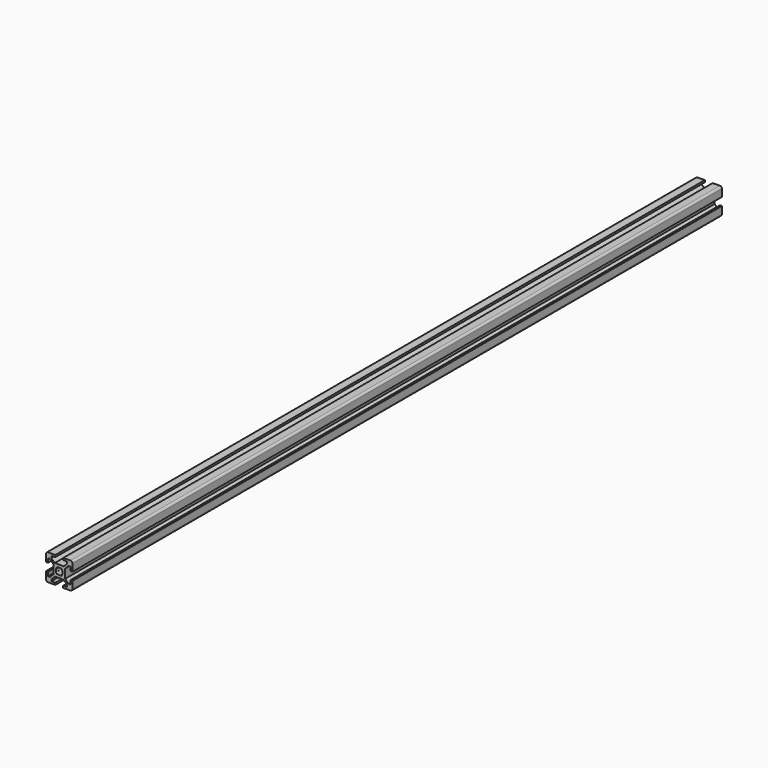
from build123d import *

# Parameters (mm, degrees)
F1_DEPTH = 615


with BuildPart() as f1:
    # F0 (on Front) → F1 (new body)
    with BuildSketch(Plane.XZ):
        with BuildLine():
            Line((3, -10), (8.5, -10))
            ThreePointArc((8.5, -10), (9.5606601718, -9.5606601718), (10, -8.5))
            Line((10, -8.5), (10, -3))
            Line((10, -3), (8.5, -3))
            Line((8.5, -3), (8.5, -6))
            Line((8.5, -6), (7.0606601718, -6))
            Line((7.0606601718, -6), (4.5, -3.4393398282))
            Line((4.5, -3.4393398282), (4.5, 3.4393398282))
            Line((4.5, 3.4393398282), (7.0606601718, 6))
            Line((7.0606601718, 6), (8.5, 6))
            Line((8.5, 6), (8.5, 3))
            Line((8.5, 3), (10, 3))
            Line((10, 3), (10, 8.5))
            ThreePointArc((10, 8.5), (9.5606601718, 9.5606601718), (8.5, 10))
            Line((8.5, 10), (3, 10))
            Line((3, 10), (3, 8.5))
            Line((3, 8.5), (6, 8.5))
            Line((6, 8.5), (6, 7.0606601718))
            Line((6, 7.0606601718), (3.4393398282, 4.5))
            Line((3.4393398282, 4.5), (-3.4393398282, 4.5))
            Line((-3.4393398282, 4.5), (-6, 7.0606601718))
            Line((-6, 7.0606601718), (-6, 8.5))
            Line((-6, 8.5), (-3, 8.5))
            Line((-3, 8.5), (-3, 10))
            Line((-3, 10), (-8.5, 10))
            ThreePointArc((-8.5, 10), (-9.5606601718, 9.5606601718), (-10, 8.5))
            Line((-10, 8.5), (-10, 3))
            Line((-10, 3), (-8.5, 3))
            Line((-8.5, 3), (-8.5, 6))
            Line((-8.5, 6), (-7.0606601718, 6))
            Line((-7.0606601718, 6), (-4.5, 3.4393398282))
            Line((-4.5, 3.4393398282), (-4.5, -3.4393398282))
            Line((-4.5, -3.4393398282), (-7.0606601718, -6))
            Line((-7.0606601718, -6), (-8.5, -6))
            Line((-8.5, -6), (-8.5, -3))
            Line((-8.5, -3), (-10, -3))
            Line((-10, -3), (-10, -8.5))
            ThreePointArc((-10, -8.5), (-9.5606601718, -9.5606601718), (-8.5, -10))
            Line((-8.5, -10), (-3, -10))
            Line((-3, -10), (-3, -8.5))
            Line((-3, -8.5), (-6, -8.5))
            Line((-6, -8.5), (-6, -7.0606601718))
            Line((-6, -7.0606601718), (-3.4393398282, -4.5))
            Line((-3.4393398282, -4.5), (3.4393398282, -4.5))
            Line((3.4393398282, -4.5), (6, -7.0606601718))
            Line((6, -7.0606601718), (6, -8.5))
            Line((6, -8.5), (3, -8.5))
            Line((3, -8.5), (3, -10))
        make_face()
        with BuildLine():
            ThreePointArc((-1.1560121095, 2.2166722813), (0, 2.5), (1.1560121095, 2.2166722813))
            Line((1.1560121095, 2.2166722813), (1.4393398282, 2.5))
            Line((1.4393398282, 2.5), (2.5, 1.4393398282))
            Line((2.5, 1.4393398282), (2.2166722813, 1.1560121095))
            ThreePointArc((2.2166722813, 1.1560121095), (2.5, 0), (2.2166722813, -1.1560121095))
            Line((2.2166722813, -1.1560121095), (2.5, -1.4393398282))
            Line((2.5, -1.4393398282), (1.4393398282, -2.5))
            Line((1.4393398282, -2.5), (1.1560121095, -2.2166722813))
            ThreePointArc((1.1560121095, -2.2166722813), (0, -2.5), (-1.1560121095, -2.2166722813))
            Line((-1.1560121095, -2.2166722813), (-1.4393398282, -2.5))
            Line((-1.4393398282, -2.5), (-2.5, -1.4393398282))
            Line((-2.5, -1.4393398282), (-2.2166722813, -1.1560121095))
            ThreePointArc((-2.2166722813, -1.1560121095), (-2.5, 0), (-2.2166722813, 1.1560121095))
            Line((-2.2166722813, 1.1560121095), (-2.5, 1.4393398282))
            Line((-2.5, 1.4393398282), (-1.4393398282, 2.5))
            Line((-1.4393398282, 2.5), (-1.1560121095, 2.2166722813))
        make_face(mode=Mode.SUBTRACT)
    extrude(amount=F1_DEPTH)


solid = f1.part
